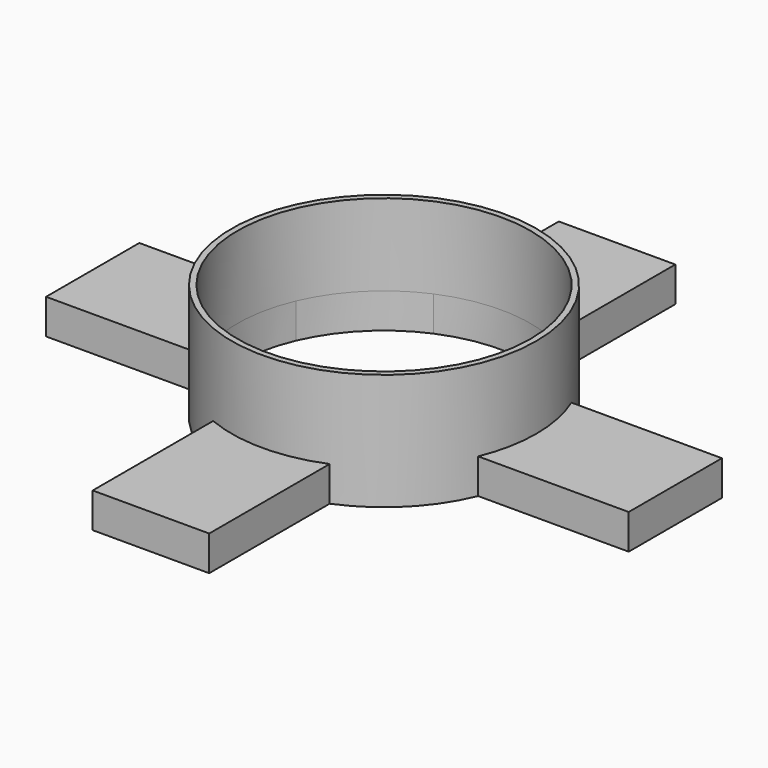
from build123d import *

# Parameters (mm, degrees)
F0_R     = 13.075
F0_R_2   = 12.575
F1_DEPTH = 10
F2_W     = 20
F2_H     = 10
F2_W_2   = 10
F2_H_2   = 20
F3_DEPTH = 3
F4_R     = 12.575
F5_DEPTH = 25


with BuildPart() as f1:
    # F0 (on Top) → F1 (new body)
    with BuildSketch(Plane.XY):
        Circle(F0_R)
        Circle(F0_R_2, mode=Mode.SUBTRACT)
    extrude(amount=F1_DEPTH)

    # F2 (on Top) → F3 (join)
    with BuildSketch(Plane.XY):
        with Locations((15, 0)):
            Rectangle(F2_W, F2_H)
        with Locations((0, -15)):
            Rectangle(F2_W_2, F2_H_2)
        with Locations((-15, 0)):
            Rectangle(F2_W, F2_H)
        with Locations((0, 15)):
            Rectangle(F2_W_2, F2_H_2)
    extrude(amount=F3_DEPTH)

    # F4 (on face) → F5 (cut)
    with BuildSketch(Plane.XY.offset(3)):
        Circle(F4_R)
    extrude(amount=-F5_DEPTH, mode=Mode.SUBTRACT)


solid = f1.part
